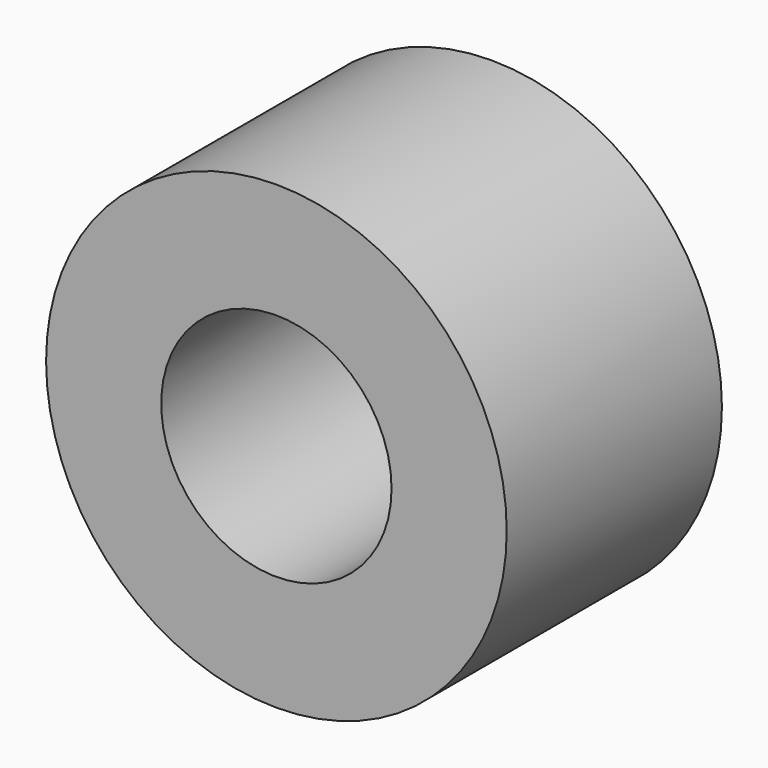
from build123d import *

# Parameters (mm, degrees)
F2_R          = 127
F3_DEPTH      = 148.336
F0_R          = 63.5
F4_DEPTH      = 280.924
F4_DEPTH_BACK = 25.4


with BuildPart() as f3:
    # F2 (on Front) → F3 (new body)
    with BuildSketch(Plane.XZ):
        Circle(F2_R)
    extrude(amount=-F3_DEPTH)

    # F0 (on Front) → F4 (cut, two sides)
    with BuildSketch(Plane.XZ) as f4_sk:
        Circle(F0_R)
    extrude(amount=-F4_DEPTH, mode=Mode.SUBTRACT)
    extrude(f4_sk.sketch, amount=-F4_DEPTH_BACK, mode=Mode.SUBTRACT)


solid = f3.part
